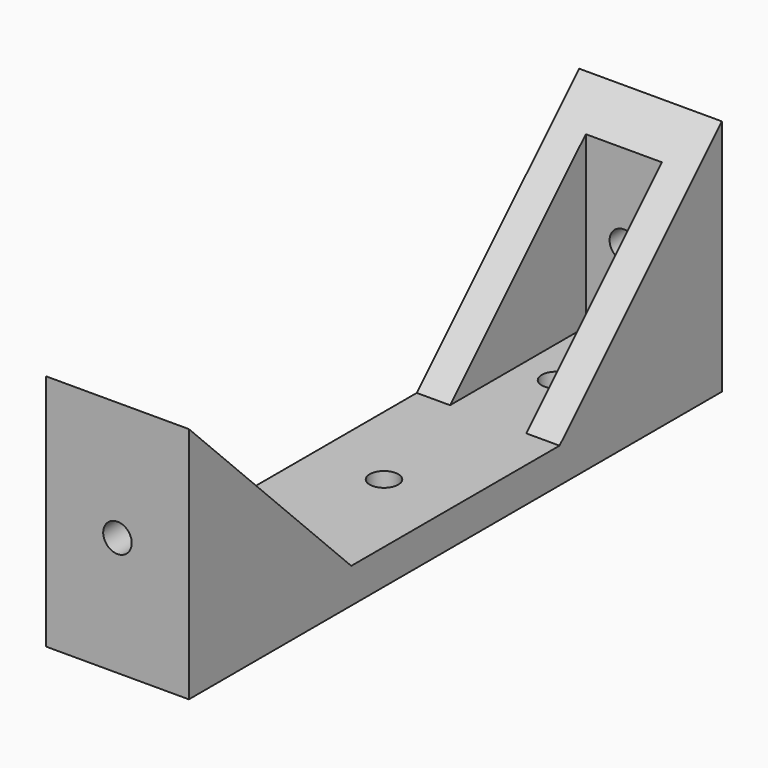
from build123d import *

# Parameters (mm, degrees)
F0_W     = 15
F0_H     = 70
F1_DEPTH = 25
F3_DEPTH = 25
F5_DEPTH = 25
F6_R     = 1.5
F7_DEPTH = 83.8
F8_R     = 1.5
F9_DEPTH = 25


with BuildPart() as f1:
    # F0 (on Top) → F1 (new body)
    with BuildSketch(Plane.XY):
        with Locations((7.5, 35)):
            Rectangle(F0_W, F0_H)
    extrude(amount=F1_DEPTH)

    # F2 (on face) → F3 (cut)
    with BuildSketch(Plane(origin=(0, 0, 0), x_dir=(0, -1, 0), z_dir=(-1, 0, 0))):
        Polygon((-35, 25), (-70, 25), (-48.676951, 3.676951), (-35, 3.676951), (-21.323049, 3.676951), (0, 25), align=None)
    extrude(amount=-F3_DEPTH, mode=Mode.SUBTRACT)

    # F4 (on face) → F5 (cut)
    with BuildSketch(Plane.XY.offset(3.676951)):
        Polygon((3.5, 66.5), (3.5, 35), (3.5, 3.5), (11.5, 3.5), (11.5, 35), (11.5, 66.5), align=None)
    extrude(amount=F5_DEPTH, mode=Mode.SUBTRACT)

    # F6 (on face) → F7 (cut)
    with BuildSketch(Plane.XZ):
        with Locations((7.5, 12.5)):
            Circle(F6_R)
    extrude(amount=-F7_DEPTH, mode=Mode.SUBTRACT)

    # F8 (on face) → F9 (cut)
    with BuildSketch(Plane.XY.offset(3.676951)):
        with Locations((7.5, 57.588476)):
            Circle(F8_R)
        with Locations((7.5, 12.411524)):
            Circle(F8_R)
        with Locations((7.5, 35)):
            Circle(F8_R)
    extrude(amount=-F9_DEPTH, mode=Mode.SUBTRACT)


solid = f1.part
